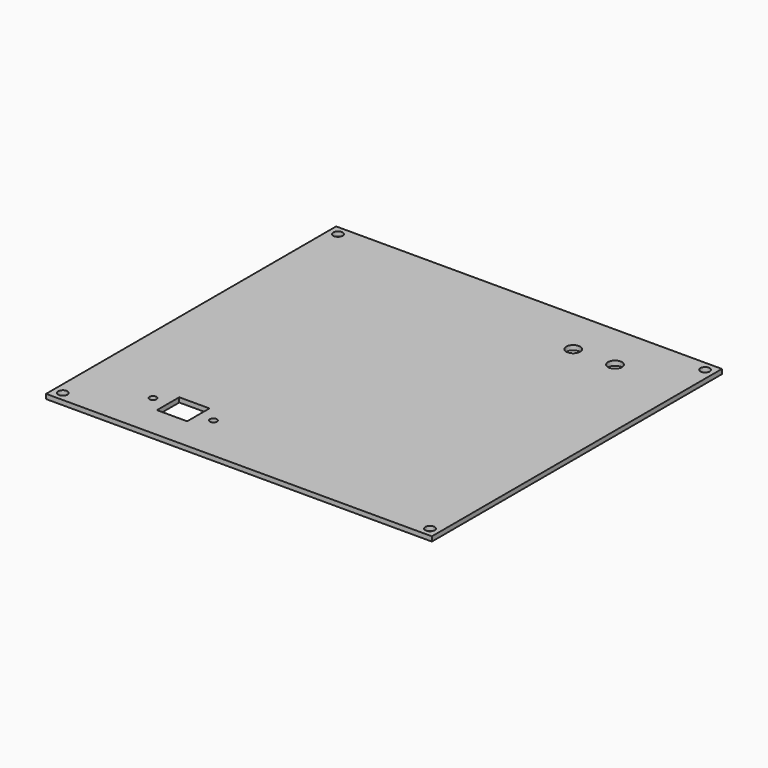
from build123d import *

# Parameters (mm, degrees)
SKETCH_W        = 166
SKETCH_H        = 156
PAD_DEPTH       = 2
SKETCH001_R     = 2
POCKET_DEPTH    = 2.001
SKETCH002_R     = 3
POCKET001_DEPTH = 2.001
SKETCH003_R     = 1.5
SKETCH003_W     = 13
SKETCH003_H     = 12
POCKET002_DEPTH = 2.001


with BuildPart() as part:
    # Sketch → Pad (new body)
    with BuildSketch(Plane.XY):
        with Locations((83, 78)):
            Rectangle(SKETCH_W, SKETCH_H)
    extrude(amount=PAD_DEPTH)

    # Sketch001 (on Face6 of Pad) → Pocket (cut, through all)
    with BuildSketch(Plane.XY.offset(2)):
        with Locations((4, 152)):
            Circle(SKETCH001_R)
        with Locations((162, 152)):
            Circle(SKETCH001_R)
        with Locations((4, 4)):
            Circle(SKETCH001_R)
        with Locations((162, 4)):
            Circle(SKETCH001_R)
    extrude(amount=-POCKET_DEPTH, mode=Mode.SUBTRACT)

    # Sketch002 (on Face5 of Pocket) → Pocket001 (cut, through all)
    with BuildSketch(Plane.XY.offset(2)):
        with Locations((118, 136)):
            Circle(SKETCH002_R)
        with Locations((136, 136)):
            Circle(SKETCH002_R)
    extrude(amount=-POCKET001_DEPTH, mode=Mode.SUBTRACT)

    # Sketch003 (on Face5 of Pocket001) → Pocket002 (cut, through all)
    with BuildSketch(Plane.XY.offset(2)):
        with Locations((30, 20)):
            Circle(SKETCH003_R)
        with Locations((56, 20)):
            Circle(SKETCH003_R)
        with Locations((43, 20)):
            Rectangle(SKETCH003_W, SKETCH003_H)
    extrude(amount=-POCKET002_DEPTH, mode=Mode.SUBTRACT)


solid = part.part
